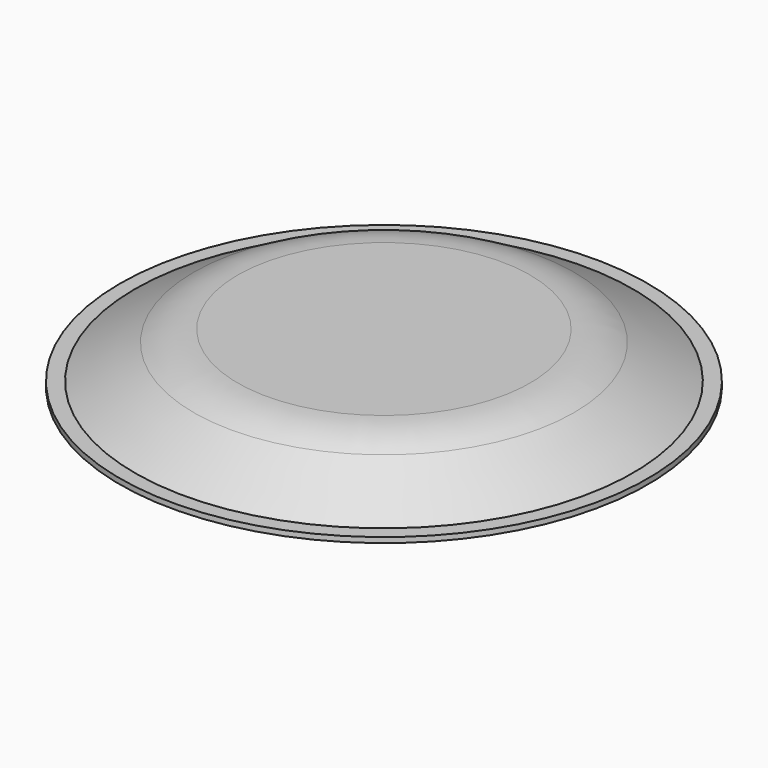
from build123d import *


with BuildPart() as f2:
    # F0 (on Front) → F2 (revolve)
    with BuildSketch(Plane.XZ):
        with BuildLine():
            Line((-995, 10), (-995, 0))
            Line((-995, 0), (-995, -10))
            Line((-995, -10), (-938.778764, -10))
            Line((-938.778764, -10), (-716.808817, -138.154409))
            ThreePointArc((-716.808817, -138.154409), (-636.977921, -171.221449), (-551.308817, -182.5))
            Line((-551.308817, -182.5), (0, -182.5))
            Line((0, -182.5), (0, -151.5))
            Line((0, -151.5), (-551.308817, -151.5))
            ThreePointArc((-551.308817, -151.5), (-628.954531, -141.277748), (-701.308817, -111.307621))
            Line((-701.308817, -111.307621), (-886.599272, -4.330127))
            ThreePointArc((-886.599272, -4.330127), (-889.099272, 0), (-886.599272, 4.330127))
            Line((-886.599272, 4.330127), (-701.308817, 111.307621))
            ThreePointArc((-701.308817, 111.307621), (-628.954531, 141.277748), (-551.308817, 151.5))
            Line((-551.308817, 151.5), (0, 151.5))
            Line((0, 151.5), (0, 182.5))
            Line((0, 182.5), (-551.308817, 182.5))
            ThreePointArc((-551.308817, 182.5), (-636.977921, 171.221449), (-716.808817, 138.154409))
            Line((-716.808817, 138.154409), (-938.778764, 10))
            Line((-938.778764, 10), (-995, 10))
        make_face()
    revolve(axis=Axis((0, 0, 234.131545), (0, 0, 1)))


solid = f2.part
